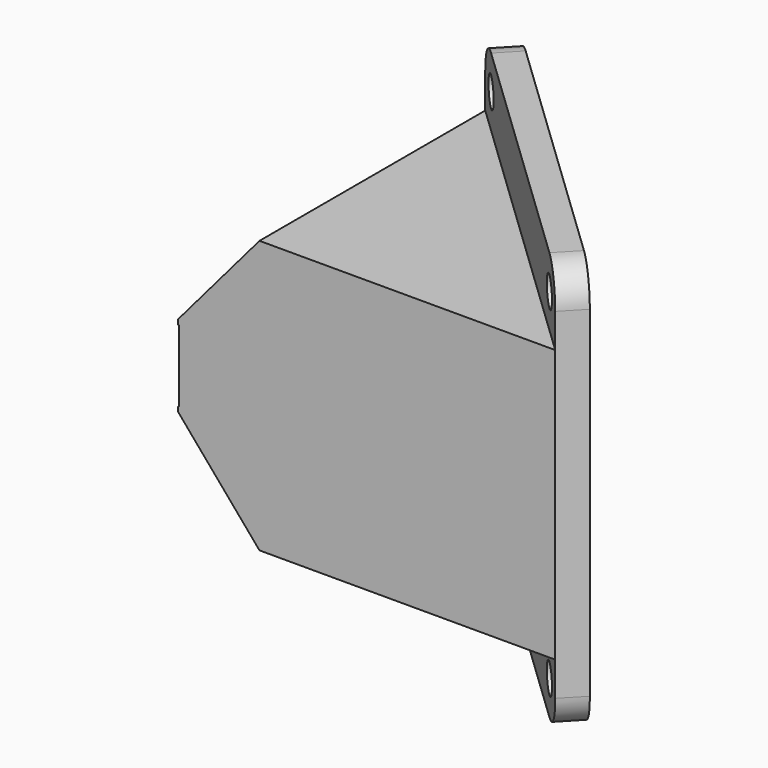
from build123d import *

# Parameters (mm, degrees)
F1_DEPTH = 31.75
F3_DEPTH = 33.8770445158
F4_T     = -1.5875
F5_W     = 3.0979418965
F5_H     = 8.3555914986
F6_DEPTH = 31.3793581519
F7_W     = 47.625
F7_H     = 7.9375
F7_R     = 1.7272
F7_H_2   = 31.75
F7_W_2   = 43.5875253129
F7_H_3   = 28.575
F8_DEPTH = 3.175
F9_R     = 3.96875


with BuildPart() as f1:
    # F0 (on Top) → F1 (new body)
    with BuildSketch(Plane.XY):
        Polygon((-43.9269818101, 0), (0, 0), (-34.4563574527, 32.8770445158), (-43.9269818101, 6.35), align=None)
    extrude(amount=F1_DEPTH)

    # F2 (on face) → F3 (cut, up to face)
    with BuildSketch(Plane.XZ):
        Polygon((-43.9269818101, 11.1125), (-43.9269818101, 0), (-34.4563574527, 0), align=None)
        Polygon((-34.4563574527, 31.75), (-43.9269818101, 31.75), (-43.9269818101, 20.6375), align=None)
    extrude(amount=-F3_DEPTH, mode=Mode.SUBTRACT)

    # F4
    f4_openings = [f1.faces().sort_by_distance(p)[0] for p in [
        (-17.228179, 16.438522, 15.875),
    ]]
    offset(amount=F4_T, openings=f4_openings)

    # F5 (on face) → F6 (cut, up to face)
    with BuildSketch(Plane(origin=(0, 0, 0), x_dir=(-0.7234930699, 0.6903316434, 0), z_dir=(0.6903316434, 0.7234930699, 0))):
        with Locations((33.2771941037, 15.875)):
            Rectangle(F5_W, F5_H)
    extrude(amount=-F6_DEPTH, mode=Mode.SUBTRACT)

    # F7 (on face) → F8 (join)
    with BuildSketch(Plane(origin=(0, 0, 0), x_dir=(-0.7234930699, 0.6903316434, 0), z_dir=(0.6903316434, 0.7234930699, 0))):
        with Locations((23.8125, -3.96875)):
            Rectangle(F7_W, F7_H)
        with Locations((3.96875, -3.96875)):
            Circle(F7_R, mode=Mode.SUBTRACT)
        with Locations((43.65625, -3.96875)):
            Circle(F7_R, mode=Mode.SUBTRACT)
        with Locations((23.8125, 35.71875)):
            Rectangle(F7_W, F7_H)
        with Locations((3.96875, 35.71875)):
            Circle(F7_R, mode=Mode.SUBTRACT)
        with Locations((43.65625, 35.71875)):
            Circle(F7_R, mode=Mode.SUBTRACT)
        with Locations((23.8125, 15.875)):
            Rectangle(F7_W, F7_H_2)
        with Locations((24.0933819992, 15.875)):
            Rectangle(F7_W_2, F7_H_3, mode=Mode.SUBTRACT)
    extrude(amount=F8_DEPTH)

    # F9
    f9_edges = [f1.edges().sort_by_distance(p)[0] for p in [
        (-33.360456, 34.02559, -7.9375),
        (1.095901, 1.148545, -7.9375),
        (-33.360456, 34.02559, 39.6875),
        (1.095901, 1.148545, 39.6875),
    ]]
    fillet(f9_edges, radius=F9_R)


solid = f1.part
